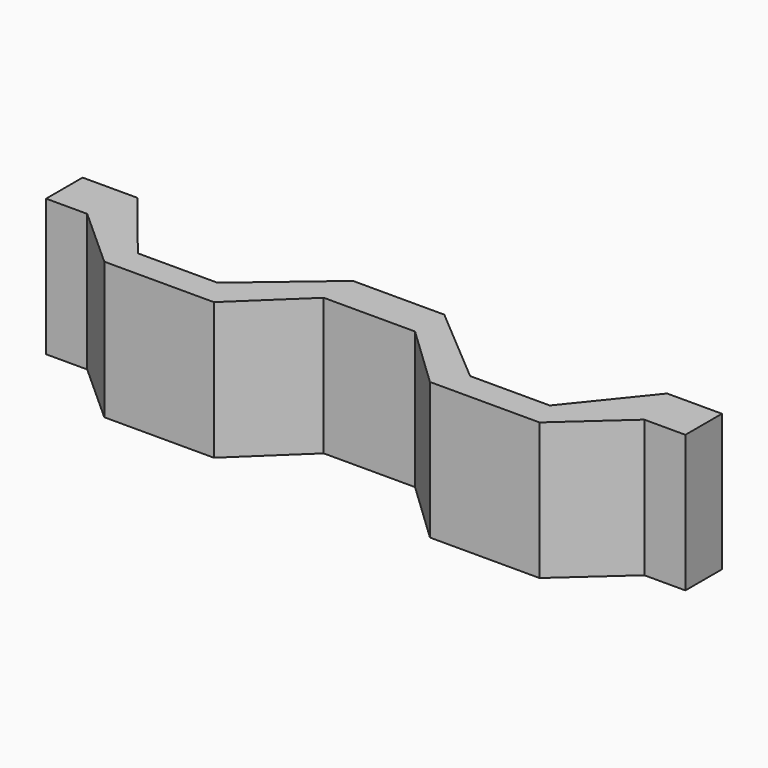
from build123d import *

# Parameters (mm, degrees)
F1_DEPTH = 15


with BuildPart() as f1:
    # F0 (on Top) → F1 (new body)
    with BuildSketch(Plane.XY):
        Polygon((5, 7.5), (0, 7.5), (-5, 7.5), (-13.831272, 0), (-22.554181, 0), (-29, 8), (-35, 8), (-35, 3), (-30.5, 3), (-23.829542, -3), (-11.829542, -3), (-5, 3.5), (0, 3.5), (5, 3.5), (11.829542, -3), (23.829542, -3), (30.5, 3), (35, 3), (35, 8), (29, 8), (22.554181, 0), (13.831272, 0), align=None)
    extrude(amount=F1_DEPTH)


solid = f1.part
